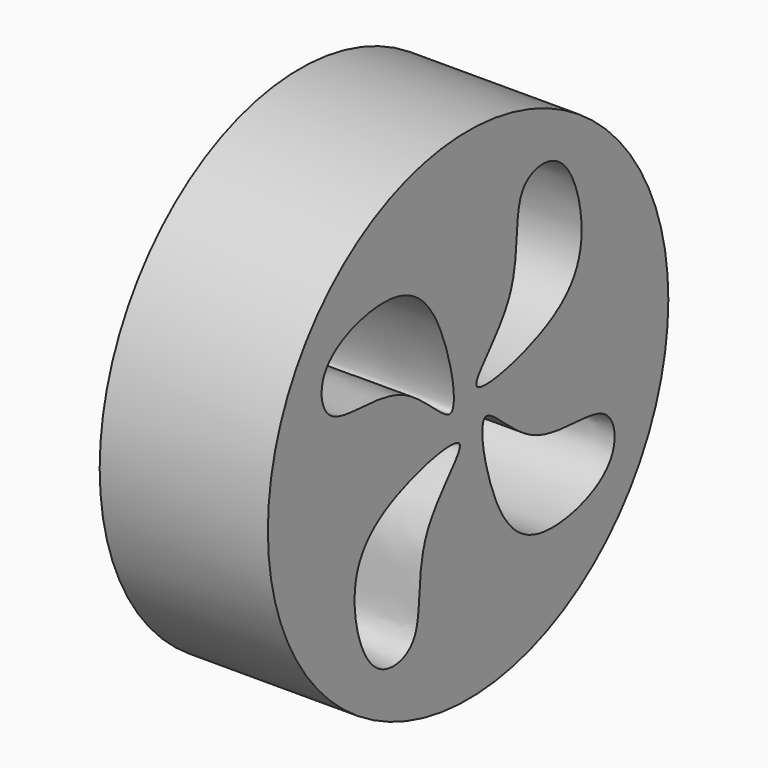
from build123d import *

# Parameters (mm, degrees)
F0_R     = 50
F1_DEPTH = 33.6
F3_DEPTH = 56.8
F5_COUNT = 4


with BuildPart() as f1:
    # F0 (on Right) → F1 (new body)
    with BuildSketch(Plane.YZ):
        Circle(F0_R)
    extrude(amount=-F1_DEPTH)


with BuildPart() as f3:
    # F2 (on face) → F3 (new body)
    with BuildSketch(Plane.YZ):
        with BuildLine():
            add(Edge.make_bspline(
                [(21.2083570659, 8.6691090837), (26.7885657915, 12.0501373577), (30.2749562705, 20.975936076), (24.3582847927, 38.1138598739), (9.9620666586, 35.8269418756), (14.8383202082, 15.9734505903), (-6.4431146448, 0.1990159338), (14.8275102715, 4.8029771011), (21.2083570659, 8.6691090837)],
                knots=[0, 0, 0, 0, 0.1668352953, 0.3346416405, 0.4604097995, 0.6441892098, 0.8092274838, 1, 1, 1, 1], degree=3))
        make_face()
    extrude(amount=-F3_DEPTH)


with BuildPart() as f5_1:
    # F5: instance of F3
    add(f3.part.rotate(Axis((-18.2636100799, 0, 0), (-1, 0, 0)), 1 * 360 / F5_COUNT))


with BuildPart() as f5_2:
    # F5: instance of F3
    add(f3.part.rotate(Axis((-18.2636100799, 0, 0), (-1, 0, 0)), 2 * 360 / F5_COUNT))


with BuildPart() as f5_3:
    # F5: instance of F3
    add(f3.part.rotate(Axis((-18.2636100799, 0, 0), (-1, 0, 0)), 3 * 360 / F5_COUNT))


with BuildPart() as f1_1:
    add(f1.part)

    # F6: cut F3, F5_1, F5_2, F5_3
    add(f3.part, mode=Mode.SUBTRACT)
    add(f5_1.part, mode=Mode.SUBTRACT)
    add(f5_2.part, mode=Mode.SUBTRACT)
    add(f5_3.part, mode=Mode.SUBTRACT)


solid = f1_1.part
